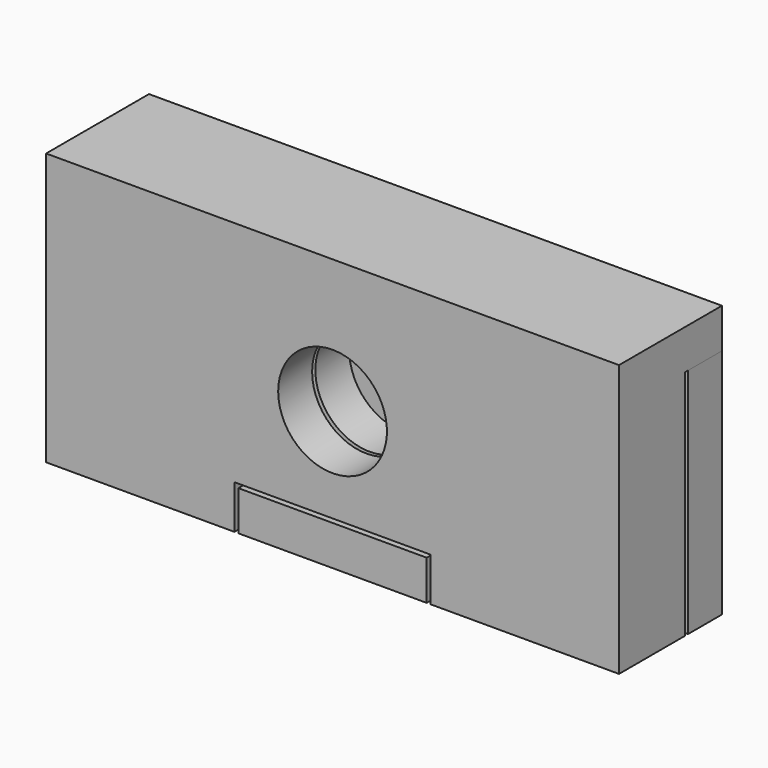
from build123d import *

# Parameters (mm, degrees)
F1_DEPTH  = 14.2
F2_DEPTH  = 14.2
F4_R      = 4.1
F3_R      = 4.1
F5_DEPTH  = 3.2
F6_R      = 4.1
F7_DEPTH  = 3.201
F9_R      = 4.1
F8_R      = 4.1
F11_DEPTH = 3.2
F10_R     = 4.1
F12_DEPTH = 3.2
F13_W     = 43.2
F13_H     = 3
F14_DEPTH = 9.7
F16_DEPTH = 3.3
F17_DEPTH = 3.3
F18_W     = 14.2
F18_H     = 3
F19_DEPTH = 3.5


with BuildPart() as f1:
    # F0 (on Top) → F1 (new body)
    with BuildSketch(Plane.XY):
        Polygon((-40.8951626662, 21.7891706413), (-40.8951626662, 15.5891706413), (2.3048373338, 15.5891706413), (2.3048373338, 21.7891706413), (-11.8951626662, 21.7891706413), (-11.8951626662, 18.7891706413), (-26.6951626662, 18.7891706413), (-26.6951626662, 21.7891706413), align=None)
    extrude(amount=F1_DEPTH)

    # F4 (on face) + F3 (on face) → F5 (cut)
    with BuildSketch(Plane(origin=(0, 21.7891706413, 0), x_dir=(-1, 0, 0), z_dir=(0, 1, 0))):
        with Locations((4.7951626662, 7.1)):
            Circle(F4_R)
    with BuildSketch(Plane(origin=(0, 21.7891706413, 0), x_dir=(-1, 0, 0), z_dir=(0, 1, 0))):
        with Locations((33.7951626662, 7.1)):
            Circle(F3_R)
    extrude(amount=-F5_DEPTH, mode=Mode.SUBTRACT)

    # F6 (on face) → F7 (cut, through all)
    with BuildSketch(Plane(origin=(0, 18.7891706413, 0), x_dir=(-1, 0, 0), z_dir=(0, 1, 0))):
        with Locations((19.2951626662, 7.1)):
            Circle(F6_R)
    extrude(amount=-F7_DEPTH, mode=Mode.SUBTRACT)

    # F13 (on face) → F14 (join, through all)
    with BuildSketch(Plane.XZ.offset(-15.5891706413)):
        with Locations((-19.2951626662, 15.7)):
            Rectangle(F13_W, F13_H)
    extrude(amount=-F14_DEPTH)

    # F15 (on face) → F16 (join)
    with BuildSketch(Plane(origin=(0, 0, 0), x_dir=(1, 0, 0), z_dir=(0, 0, -1))):
        Polygon((-40.8951626662, -21.7891706413), (-26.6951626662, -21.7891706413), (-26.6951626662, -18.7891706413), (-26.6951626662, -15.5891706413), (-40.8951626662, -15.5891706413), align=None)
        Polygon((-11.8951626662, -15.5891706413), (-11.8951626662, -18.7891706413), (-11.8951626662, -21.7891706413), (2.3048373338, -21.7891706413), (2.3048373338, -15.5891706413), align=None)
    extrude(amount=F16_DEPTH)


with BuildPart() as f2:
    # F0 (on Top) → F2 (new body)
    with BuildSketch(Plane.XY):
        Polygon((2.3048373338, 25.2891706413), (-40.8951626662, 25.2891706413), (-40.8951626662, 22.0891706413), (-26.3951626662, 22.0891706413), (-26.3951626662, 19.0891706413), (-12.1951626662, 19.0891706413), (-12.1951626662, 22.0891706413), (2.3048373338, 22.0891706413), align=None)
    extrude(amount=F2_DEPTH)

    # F9 (on face) + F8 (on face) → F11 (cut)
    with BuildSketch(Plane.XZ.offset(-22.0891706413)):
        with Locations((-4.9451626662, 7.1)):
            Circle(F9_R)
    with BuildSketch(Plane.XZ.offset(-22.0891706413)):
        with Locations((-33.6451626662, 7.1)):
            Circle(F8_R)
    extrude(amount=-F11_DEPTH, mode=Mode.SUBTRACT)

    # F10 (on face) → F12 (cut)
    with BuildSketch(Plane.XZ.offset(-19.0891706413)):
        with Locations((-19.2951626662, 7.1)):
            Circle(F10_R)
    extrude(amount=-F12_DEPTH, mode=Mode.SUBTRACT)

    # F17 (add, through all): a face of the model
    f17_faces = [f2.faces().sort_by_distance(p)[0] for p in [
        (-19.2951626662, 22.958911849, 0),
    ]]
    extrude(f17_faces, amount=F17_DEPTH)

    # F18 (on face) → F19 (join, through all)
    with BuildSketch(Plane.XZ.offset(-19.0891706413)):
        with Locations((-19.2951626662, -1.8)):
            Rectangle(F18_W, F18_H)
    extrude(amount=F19_DEPTH)


solid = Compound([f1.part, f2.part])
